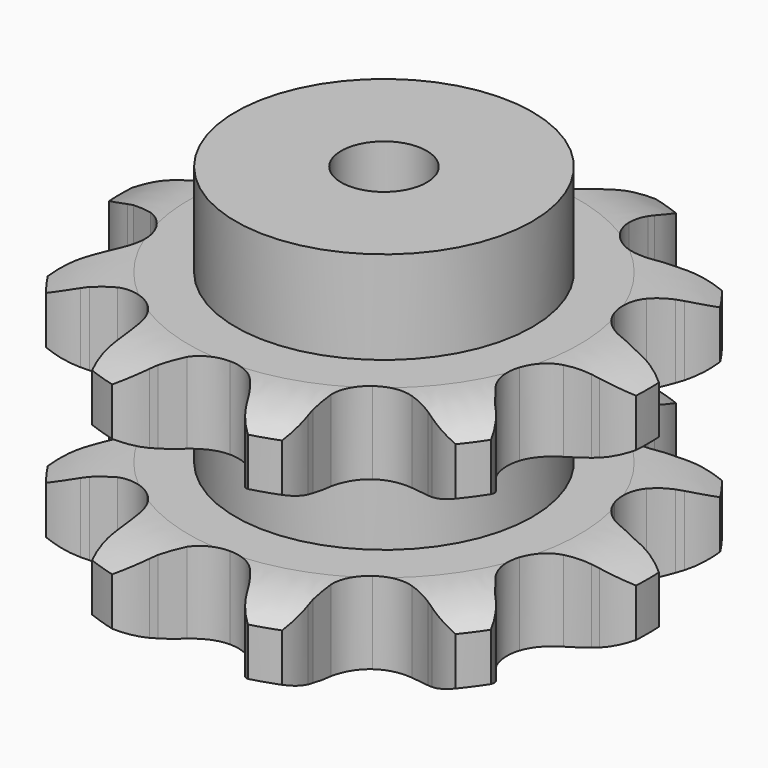
from build123d import *

# Parameters (mm, degrees)
PAD_DEPTH         = 87.4
SKETCH001_R       = 52
PAD001_DEPTH      = 120
SKETCH002_R       = 15
POCKET_DEPTH      = 0.001
POCKET_DEPTH_BACK = -120.001


with BuildPart() as part:
    # Sprocket → Pad (new body)
    with BuildSketch(Plane.XY):
        with BuildLine():
            ThreePointArc((-30.194032, 92.927676), (-22.563835, 88.403928), (-17.000078, 81.495325))
            Line((-17.000078, 81.495325), (-15.80116, 79.296353))
            ThreePointArc((-15.80116, 79.296353), (-13.636696, 75.791787), (-11.106401, 72.54148))
            ThreePointArc((-11.106401, 72.54148), (-6.102678, 68.805023), (0, 67.480002))
            ThreePointArc((0, 67.480002), (6.102678, 68.805023), (11.106401, 72.54148))
            ThreePointArc((11.106401, 72.54148), (13.636696, 75.791787), (15.80116, 79.296353))
            Line((15.80116, 79.296353), (17.000078, 81.495325))
            ThreePointArc((17.000078, 81.495325), (22.563835, 88.403928), (30.194032, 92.927676))
            ThreePointArc((30.194032, 92.927676), (33.707999, 84.78297), (34.148398, 75.923498))
            Line((34.148398, 75.923498), (33.82582, 73.439786))
            ThreePointArc((33.82582, 73.439786), (33.516976, 69.332292), (33.653545, 65.215469))
            ThreePointArc((33.653545, 65.215469), (35.505408, 59.251497), (39.66375, 54.592468))
            ThreePointArc((39.66375, 54.592468), (45.379748, 52.077369), (51.624079, 52.159112))
            Line((51.624079, 52.159112), (59.392634, 54.864409))
            ThreePointArc((59.392634, 54.864409), (60.515034, 55.420162), (61.655102, 55.938707))
            ThreePointArc((61.655102, 55.938707), (70.217052, 58.257591), (79.049003, 57.432462))
            ThreePointArc((79.049003, 57.432462), (77.104524, 48.777799), (72.253346, 41.351475))
            Line((72.253346, 41.351475), (70.532487, 39.531717))
            ThreePointArc((70.532487, 39.531717), (67.868302, 36.390219), (65.558981, 32.979365))
            ThreePointArc((65.558981, 32.979365), (63.551634, 27.065913), (64.177295, 20.852467))
            ThreePointArc((64.177295, 20.852467), (67.323296, 15.45793), (72.423114, 11.853736))
            Line((72.423114, 11.853736), (80.298141, 9.476125))
            ThreePointArc((80.298141, 9.476125), (81.532845, 9.266008), (82.759972, 9.015405))
            ThreePointArc((82.759972, 9.015405), (91.049741, 5.858834), (97.709941, 0))
            ThreePointArc((97.709941, 0), (91.049741, -5.858834), (82.759972, -9.015405))
            Line((82.759972, -9.015405), (80.298141, -9.476125))
            ThreePointArc((80.298141, -9.476125), (76.296244, -10.451682), (72.423114, -11.853736))
            ThreePointArc((72.423114, -11.853736), (67.323296, -15.45793), (64.177295, -20.852467))
            ThreePointArc((64.177295, -20.852467), (63.551634, -27.065913), (65.558981, -32.979365))
            Line((65.558981, -32.979365), (70.532487, -39.531717))
            ThreePointArc((70.532487, -39.531717), (71.40788, -40.427446), (72.253346, -41.351475))
            ThreePointArc((72.253346, -41.351475), (77.104524, -48.777799), (79.049003, -57.432462))
            ThreePointArc((79.049003, -57.432462), (70.217052, -58.257591), (61.655102, -55.938707))
            Line((61.655102, -55.938707), (59.392634, -54.864409))
            ThreePointArc((59.392634, -54.864409), (55.581613, -53.301395), (51.624079, -52.159112))
            ThreePointArc((51.624079, -52.159112), (45.379748, -52.077369), (39.66375, -54.592468))
            ThreePointArc((39.66375, -54.592468), (35.505408, -59.251497), (33.653545, -65.215469))
            Line((33.653545, -65.215469), (33.82582, -73.439786))
            ThreePointArc((33.82582, -73.439786), (34.007532, -74.678989), (34.148398, -75.923498))
            ThreePointArc((34.148398, -75.923498), (33.707999, -84.78297), (30.194032, -92.927676))
            ThreePointArc((30.194032, -92.927676), (22.563835, -88.403928), (17.000078, -81.495325))
            Line((17.000078, -81.495325), (15.80116, -79.296353))
            ThreePointArc((15.80116, -79.296353), (13.636696, -75.791787), (11.106401, -72.54148))
            ThreePointArc((11.106401, -72.54148), (6.102678, -68.805023), (0, -67.480002))
            ThreePointArc((0, -67.480002), (-6.102678, -68.805023), (-11.106401, -72.54148))
            Line((-11.106401, -72.54148), (-15.80116, -79.296353))
            ThreePointArc((-15.80116, -79.296353), (-16.382537, -80.405697), (-17.000078, -81.495325))
            ThreePointArc((-17.000078, -81.495325), (-22.563835, -88.403928), (-30.194032, -92.927676))
            ThreePointArc((-30.194032, -92.927676), (-33.707999, -84.78297), (-34.148398, -75.923498))
            Line((-34.148398, -75.923498), (-33.82582, -73.439786))
            ThreePointArc((-33.82582, -73.439786), (-33.516976, -69.332292), (-33.653545, -65.215469))
            ThreePointArc((-33.653545, -65.215469), (-35.505408, -59.251497), (-39.66375, -54.592468))
            ThreePointArc((-39.66375, -54.592468), (-45.379748, -52.077369), (-51.624079, -52.159112))
            Line((-51.624079, -52.159112), (-59.392634, -54.864409))
            ThreePointArc((-59.392634, -54.864409), (-60.515034, -55.420162), (-61.655102, -55.938707))
            ThreePointArc((-61.655102, -55.938707), (-70.217052, -58.257591), (-79.049003, -57.432462))
            ThreePointArc((-79.049003, -57.432462), (-77.104524, -48.777799), (-72.253346, -41.351475))
            Line((-72.253346, -41.351475), (-70.532487, -39.531717))
            ThreePointArc((-70.532487, -39.531717), (-67.868302, -36.390219), (-65.558981, -32.979365))
            ThreePointArc((-65.558981, -32.979365), (-63.551634, -27.065913), (-64.177295, -20.852467))
            ThreePointArc((-64.177295, -20.852467), (-67.323296, -15.45793), (-72.423114, -11.853736))
            Line((-72.423114, -11.853736), (-80.298141, -9.476125))
            ThreePointArc((-80.298141, -9.476125), (-81.532845, -9.266008), (-82.759972, -9.015405))
            ThreePointArc((-82.759972, -9.015405), (-91.049741, -5.858834), (-97.709941, 0))
            ThreePointArc((-97.709941, 0), (-91.049741, 5.858834), (-82.759972, 9.015405))
            Line((-82.759972, 9.015405), (-80.298141, 9.476125))
            ThreePointArc((-80.298141, 9.476125), (-76.296244, 10.451682), (-72.423114, 11.853736))
            ThreePointArc((-72.423114, 11.853736), (-67.323296, 15.45793), (-64.177295, 20.852467))
            ThreePointArc((-64.177295, 20.852467), (-63.551634, 27.065913), (-65.558981, 32.979365))
            Line((-65.558981, 32.979365), (-70.532487, 39.531717))
            ThreePointArc((-70.532487, 39.531717), (-71.40788, 40.427446), (-72.253346, 41.351475))
            ThreePointArc((-72.253346, 41.351475), (-77.104524, 48.777799), (-79.049003, 57.432462))
            ThreePointArc((-79.049003, 57.432462), (-70.217052, 58.257591), (-61.655102, 55.938707))
            Line((-61.655102, 55.938707), (-59.392634, 54.864409))
            ThreePointArc((-59.392634, 54.864409), (-55.581613, 53.301395), (-51.624079, 52.159112))
            ThreePointArc((-51.624079, 52.159112), (-45.379748, 52.077369), (-39.66375, 54.592468))
            ThreePointArc((-39.66375, 54.592468), (-35.505408, 59.251497), (-33.653545, 65.215469))
            Line((-33.653545, 65.215469), (-33.82582, 73.439786))
            ThreePointArc((-33.82582, 73.439786), (-34.007532, 74.678989), (-34.148398, 75.923498))
            ThreePointArc((-34.148398, 75.923498), (-33.707999, 84.78297), (-30.194032, 92.927676))
        make_face()
    extrude(amount=PAD_DEPTH)

    # Sketch → Groove (revolve, cut)
    with BuildSketch(Plane.XZ):
        with BuildLine():
            ThreePointArc((68.5, 0), (80.869317, 1.522732), (92.5, 6))
            Line((92.5, 6), (92.5, 22.8))
            ThreePointArc((92.5, 22.8), (80.869317, 27.277268), (68.5, 28.8))
            Line((52, 28.8), (68.5, 28.8))
            Line((52, 58.6), (52, 28.8))
            Line((68.5, 58.6), (52, 58.6))
            ThreePointArc((68.5, 58.6), (80.869317, 60.122732), (92.5, 64.6))
            Line((92.5, 64.6), (92.5, 81.4))
            ThreePointArc((92.5, 81.4), (80.869317, 85.877268), (68.5, 87.4))
            Line((68.5, 87.4), (102.5, 87.4))
            Line((102.5, 87.4), (102.5, 0))
            Line((68.5, 0), (102.5, 0))
        make_face()
    revolve(axis=Axis((0, 0, 0), (0, 0, 1)), mode=Mode.SUBTRACT)

    # Sketch001 → Pad001 (join)
    with BuildSketch(Plane.XY):
        Circle(SKETCH001_R)
    extrude(amount=PAD001_DEPTH)

    # Sketch002 → Pocket (cut, two sides)
    with BuildSketch(Plane.XY) as pocket_sk:
        Circle(SKETCH002_R)
    extrude(amount=-POCKET_DEPTH, mode=Mode.SUBTRACT)
    extrude(pocket_sk.sketch, amount=-POCKET_DEPTH_BACK, mode=Mode.SUBTRACT)


solid = part.part
